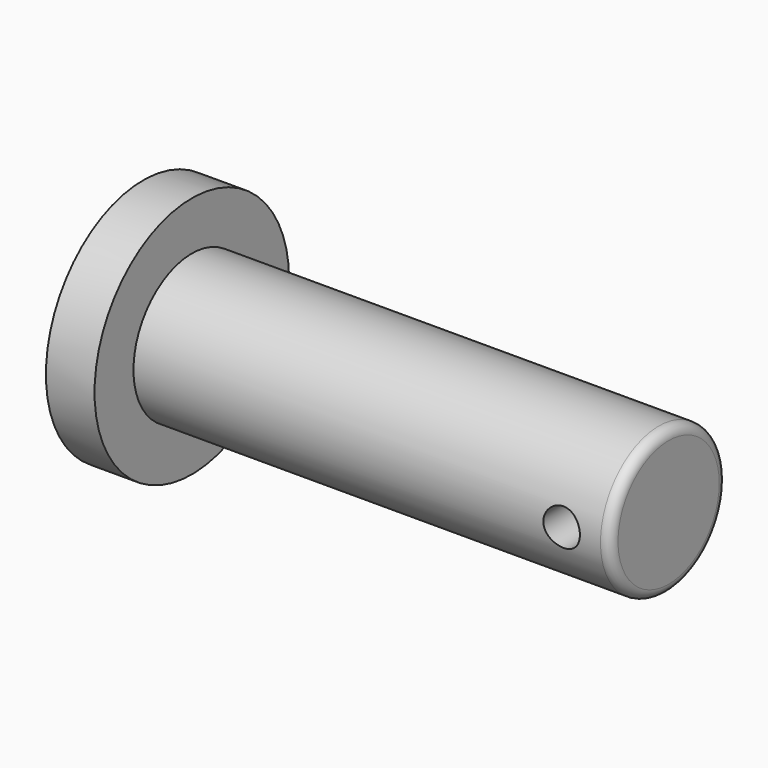
from build123d import *

# Parameters (mm, degrees)
F0_R          = 15.875
F1_DEPTH      = 6.35
F2_R          = 9.525
F3_DEPTH      = 62.23
F4_R          = 2.3876
F5_DEPTH      = 25.4
F5_DEPTH_BACK = 25.4
F6_R          = 1.27


with BuildPart() as f1:
    # F0 (on Right) → F1 (new body)
    with BuildSketch(Plane.YZ):
        Circle(F0_R)
    extrude(amount=F1_DEPTH)

    # F2 (on face) → F3 (join)
    with BuildSketch(Plane.YZ.offset(6.35)):
        Circle(F2_R)
    extrude(amount=F3_DEPTH)

    # F4 (on Front) → F5 (cut, two sides)
    with BuildSketch(Plane.XZ) as f5_sk:
        with Locations((62.23, 0)):
            Circle(F4_R)
    extrude(amount=-F5_DEPTH, mode=Mode.SUBTRACT)
    extrude(f5_sk.sketch, amount=F5_DEPTH_BACK, mode=Mode.SUBTRACT)

    # F6
    f6_edges = [f1.edges().sort_by_distance(p)[0] for p in [
        (68.58, -9.525, 0),
    ]]
    fillet(f6_edges, radius=F6_R)


solid = f1.part
